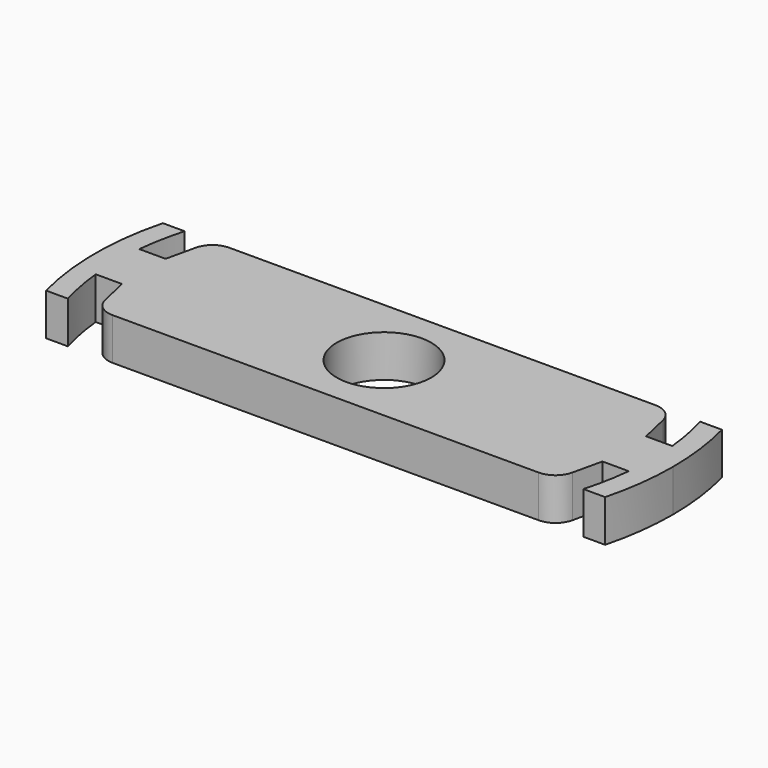
from build123d import *

# Parameters (mm, degrees)
F0_R     = 4.5
F1_DEPTH = 4


with BuildPart() as f1:
    # F0 (on Top) → F1 (new body)
    with BuildSketch(Plane.XY):
        with BuildLine():
            ThreePointArc((-25.367756, 2.593636), (-25.046378, 4.788421), (-24.535476, 6.946973))
            Line((-24.535476, 6.946973), (-26.608073, 6.946973))
            ThreePointArc((-26.608073, 6.946973), (-27.5, 0), (-26.608073, -6.946973))
            Line((-26.608073, -6.946973), (-24.535476, -6.946973))
            ThreePointArc((-24.535476, -6.946973), (-25.046378, -4.788421), (-25.367756, -2.593636))
            ThreePointArc((-25.367756, -2.593636), (-25.5, 0), (-25.367756, 2.593636))
        make_face()
        with BuildLine():
            ThreePointArc((25.367756, 2.593636), (25.466918, 1.298502), (25.5, 0))
            ThreePointArc((25.5, 0), (25.466918, -1.298502), (25.367756, -2.593636))
            ThreePointArc((25.367756, -2.593636), (25.046378, -4.788421), (24.535476, -6.946973))
            Line((24.535476, -6.946973), (26.608073, -6.946973))
            ThreePointArc((26.608073, -6.946973), (27.276107, -3.501998), (27.5, 0))
            ThreePointArc((27.5, 0), (27.276107, 3.501998), (26.608073, 6.946973))
            Line((26.608073, 6.946973), (24.535476, 6.946973))
            ThreePointArc((24.535476, 6.946973), (25.046378, 4.788421), (25.367756, 2.593636))
        make_face()
        with BuildLine():
            ThreePointArc((25.367756, -2.593636), (25.466918, -1.298502), (25.5, 0))
            ThreePointArc((25.5, 0), (25.466918, 1.298502), (25.367756, 2.593636))
            Line((25.367756, 2.593636), (22.867756, 2.593636))
            Line((22.867756, 2.593636), (22.234436, 5.388908))
            ThreePointArc((22.234436, 5.388908), (21.532098, 6.509642), (20.283874, 6.946973))
            Line((20.283874, 6.946973), (0, 6.946973))
            Line((0, 6.946973), (-20.283874, 6.946973))
            ThreePointArc((-20.283874, 6.946973), (-21.532098, 6.509642), (-22.234436, 5.388908))
            Line((-22.234436, 5.388908), (-22.867756, 2.593636))
            Line((-22.867756, 2.593636), (-25.367756, 2.593636))
            ThreePointArc((-25.367756, 2.593636), (-25.5, 0), (-25.367756, -2.593636))
            Line((-25.367756, -2.593636), (-22.867756, -2.593636))
            Line((-22.867756, -2.593636), (-22.234436, -5.388908))
            ThreePointArc((-22.234436, -5.388908), (-21.532098, -6.509642), (-20.283874, -6.946973))
            Line((-20.283874, -6.946973), (0, -6.946973))
            Line((0, -6.946973), (20.283874, -6.946973))
            ThreePointArc((20.283874, -6.946973), (21.532098, -6.509642), (22.234436, -5.388908))
            Line((22.234436, -5.388908), (22.867756, -2.593636))
            Line((22.867756, -2.593636), (25.367756, -2.593636))
        make_face()
        Circle(F0_R, mode=Mode.SUBTRACT)
    extrude(amount=F1_DEPTH)


solid = f1.part
